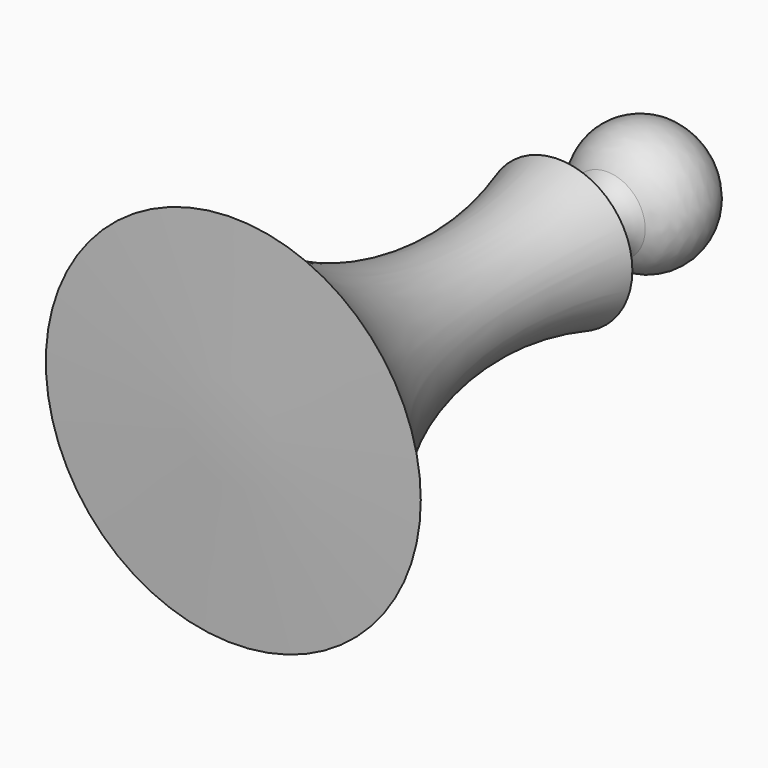
from build123d import *


with BuildPart() as f1:
    # F0 (on Top) → F1 (revolve)
    with BuildSketch(Plane.XY):
        with BuildLine():
            ThreePointArc((6.473704, 28.017532), (3.335487, 26.883319), (0, 26.980117))
            Line((0, 26.980117), (0, -52.332126))
            Line((0, -52.332126), (31.864446, -51.401775))
            ThreePointArc((31.864446, -51.401775), (11.901177, -19.74407), (12.559708, 17.676629))
            ThreePointArc((12.559708, 17.676629), (5.422722, 20.437619), (6.473704, 28.017532))
        make_face()
        with BuildLine():
            ThreePointArc((6.473704, 28.017532), (10.230245, 38.980289), (0, 44.424161))
            Line((0, 44.424161), (0, 26.980117))
            ThreePointArc((0, 26.980117), (3.335487, 26.883319), (6.473704, 28.017532))
        make_face()
    revolve(axis=Axis((0, -2.907343, 0), (0, -1, 0)))


solid = f1.part
